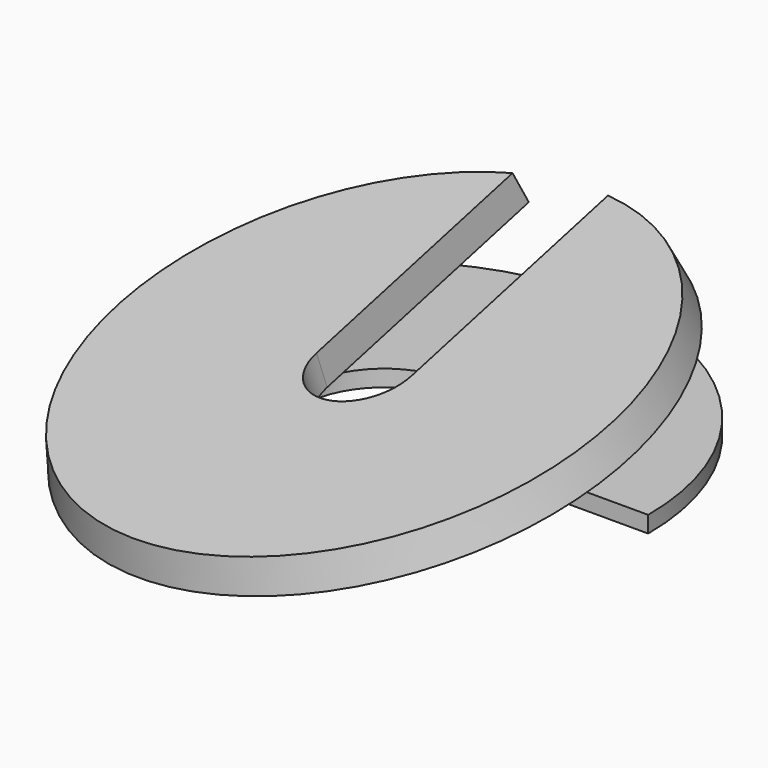
from build123d import *

# Parameters (mm, degrees)
PAD_DEPTH               = 1
POCKET_DEPTH            = 1
SKETCH002_R             = 16
PAD001_DEPTH            = 2
PAD001_TAPER            = 12
SKETCH003_R             = 3
POCKET001_DEPTH         = 2.001
SKETCH004_W             = 6
SKETCH004_H             = 16
POCKET002_DEPTH         = 2.001
BODY001_ROLL_ANGLE      = 13.627747
BODY001_PITCH_ANGLE     = -7.777572
BODY001_PLACEMENT_ANGLE = -1.879121


with BuildPart() as body:
    # Sketch → Pad (new body)
    with BuildSketch(Plane.XY):
        with BuildLine():
            ThreePointArc((32, 0), (16, 16), (0, 0))
            Line((32, 0), (0, 0))
        make_face()
    extrude(amount=PAD_DEPTH)

    # Sketch001 → Pocket (cut)
    with BuildSketch(Plane.XY):
        with BuildLine():
            ThreePointArc((21, 0), (16, 5), (11, 0))
            Line((11, 0), (21, 0))
        make_face()
    extrude(amount=POCKET_DEPTH, mode=Mode.SUBTRACT)


with BuildPart() as obj1:
    # Sketch002 → Pad001 (new body)
    with BuildSketch(Plane.XY):
        with Locations((16, 0)):
            Circle(SKETCH002_R)
    extrude(amount=PAD001_DEPTH, taper=PAD001_TAPER)

    # Sketch003 (on Face3 of Pad001) → Pocket001 (cut, through all)
    with BuildSketch(Plane.XY.offset(2)):
        with Locations((16, 0)):
            Circle(SKETCH003_R)
    extrude(amount=-POCKET001_DEPTH, mode=Mode.SUBTRACT)

    # Sketch004 (on Face3 of Pocket001) → Pocket002 (cut, through all)
    with BuildSketch(Plane.XY.offset(2)):
        with Locations((16, 8)):
            Rectangle(SKETCH004_W, SKETCH004_H)
    extrude(amount=-POCKET002_DEPTH, mode=Mode.SUBTRACT)


with BuildPart() as obj1_1:
    # Body001 roll: moved
    add(obj1.part.rotate(Axis((0, 0, 0), (1, 0, 0)), BODY001_ROLL_ANGLE))


with BuildPart() as obj1_2:
    # Body001 pitch: moved
    add(obj1_1.part.rotate(Axis((0, 0, 0), (0, 1, 0)), BODY001_PITCH_ANGLE))


with BuildPart() as obj1_3:
    # Body001 placement: moved
    add(obj1_2.part.rotate(Axis((0, 0, 0), (0, 0, 1)), BODY001_PLACEMENT_ANGLE))


solid = Compound([body.part, obj1_3.part])
